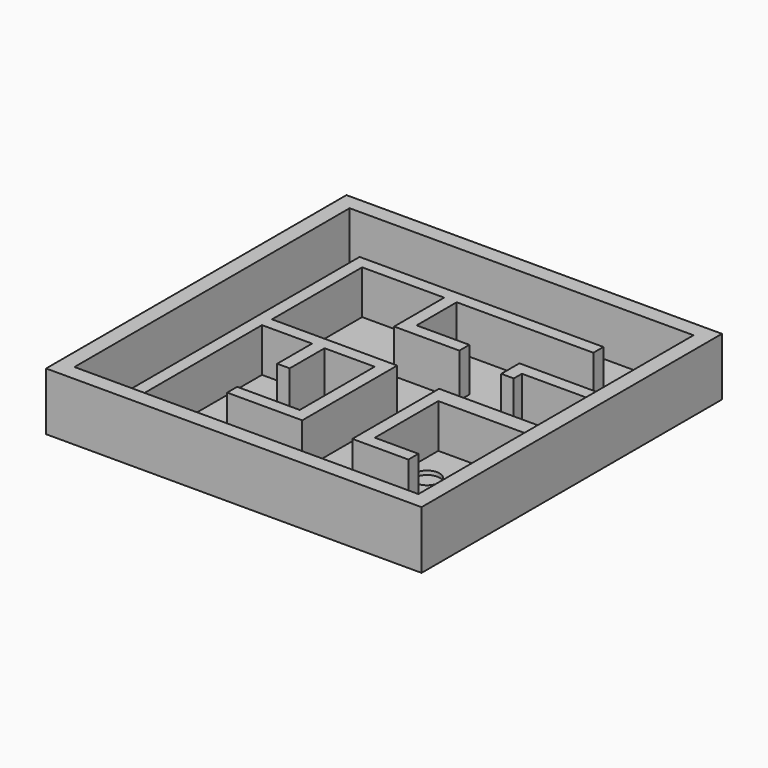
from build123d import *

# Parameters (mm, degrees)
F0_W     = 38.1
F0_H     = 38.1
F1_DEPTH = 0.79375
F2_W     = 38.1
F2_H     = 38.1
F2_W_2   = 34.8996
F2_H_2   = 34.8996
F3_DEPTH = 5.08
F4_R     = 1.27
F5_DEPTH = 0.396875
F6_DEPTH = 4.445


with BuildPart() as f1:
    # F0 (on Top) → F1 (new body)
    with BuildSketch(Plane.XY):
        with Locations((-2.948644, 0.644133)):
            Rectangle(F0_W, F0_H)
    extrude(amount=F1_DEPTH)

    # F2 (on face) → F3 (join)
    with BuildSketch(Plane.XY.offset(0.79375)):
        with Locations((-2.948644, 0.644133)):
            Rectangle(F2_W, F2_H)
        with Locations((-2.948644, 0.644133)):
            Rectangle(F2_W_2, F2_H_2, mode=Mode.SUBTRACT)
    extrude(amount=F3_DEPTH)

    # F4 (on face) → F5 (cut)
    with BuildSketch(Plane.XY.offset(0.79375)):
        with Locations((-17.858444, -14.027401)):
            Circle(F4_R)
        with Locations((7.211356, -6.596157)):
            Circle(F4_R)
    extrude(amount=-F5_DEPTH, mode=Mode.SUBTRACT)

    # F4 (on face) → F6 (join)
    with BuildSketch(Plane.XY.offset(0.79375)):
        Polygon((-15.318444, 13.013933), (-15.318444, -16.805667), (-14.048444, -16.805667), (-14.048444, -0.956067), (-8.968444, -0.956067), (-8.968444, -5.375667), (-7.698444, -5.375667), (-7.698444, -0.956067), (-2.618444, -0.956067), (-2.618444, -10.455667), (-8.968444, -10.455667), (-8.968444, -11.725667), (-2.618444, -11.725667), (-1.348444, -11.725667), (-1.348444, -0.956067), (-1.348444, 0.313933), (-14.048444, 0.313933), (-14.048444, 11.743933), (-5.721033, 11.743933), (-5.721033, 6.663933), (-5.721033, 5.393933), (-4.451033, 5.393933), (0.894486, 5.393933), (0.894486, 6.663933), (-4.451033, 6.663933), (-4.451033, 11.743933), (9.421156, 11.743933), (9.421156, 13.013933), (-14.048444, 13.013933), align=None)
        Polygon((5.001556, -2.410417), (14.501156, -2.410417), (14.501156, -0.719784), (12.663512, -0.719784), (5.001556, -0.719784), (3.731556, -0.719784), (3.731556, -2.410417), (3.731556, -10.455667), (3.731556, -11.725667), (5.001556, -11.725667), (9.421156, -11.725667), (9.421156, -10.455667), (5.001556, -10.455667), align=None)
        Polygon((14.501156, 5.393933), (14.501156, 6.663933), (7.077073, 6.663933), (5.974486, 6.663933), (5.974486, 5.393933), (5.974486, 4.360216), (7.244486, 4.360216), (7.244486, 5.393933), align=None)
    extrude(amount=F6_DEPTH)


solid = f1.part
